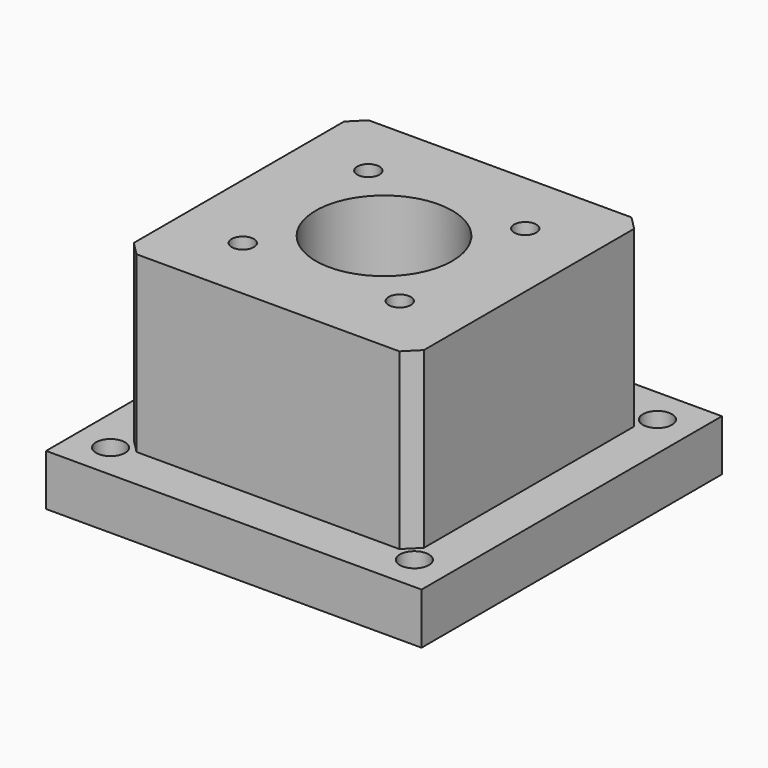
from build123d import *

# Parameters (mm, degrees)
F0_W      = 110
F0_H      = 110
F1_DEPTH  = 15
F2_W      = 85
F2_H      = 85
F3_DEPTH  = 51
F4_SIZE   = 4
F5_R      = 20
F6_DEPTH  = 66.001
F7_R      = 4.25
F8_DEPTH  = 66.001
F9_R      = 28
F10_DEPTH = 2
F11_R     = 3.25
F12_DEPTH = 25


with BuildPart() as f1:
    # F0 (on Top) → F1 (new body)
    with BuildSketch(Plane.XY):
        with Locations((55, 55)):
            Rectangle(F0_W, F0_H)
    extrude(amount=F1_DEPTH)

    # F2 (on face) → F3 (join)
    with BuildSketch(Plane.XY.offset(15)):
        with Locations((55, 55)):
            Rectangle(F2_W, F2_H)
    extrude(amount=F3_DEPTH)

    # F4
    f4_edges = [f1.edges().sort_by_distance(p)[0] for p in [
        (12.5, 12.5, 40.5),
        (97.5, 12.5, 40.5),
        (97.5, 97.5, 40.5),
        (12.5, 97.5, 40.5),
    ]]
    chamfer(f4_edges, length=F4_SIZE)

    # F5 (on face) → F6 (cut, through all)
    with BuildSketch(Plane.XY.offset(66)):
        with Locations((55, 55)):
            Circle(F5_R)
    extrude(amount=-F6_DEPTH, mode=Mode.SUBTRACT)

    # F7 (on face) → F8 (cut, through all)
    with BuildSketch(Plane(origin=(0, 0, 0), x_dir=(1, 0, 0), z_dir=(0, 0, -1))):
        with Locations((10.5, -10.5)):
            Circle(F7_R)
        with Locations((99.5, -10.5)):
            Circle(F7_R)
        with Locations((99.5, -99.5)):
            Circle(F7_R)
        with Locations((10.5, -99.5)):
            Circle(F7_R)
    extrude(amount=-F8_DEPTH, mode=Mode.SUBTRACT)

    # F9 (on face) → F10 (cut)
    with BuildSketch(Plane(origin=(0, 0, 0), x_dir=(1, 0, 0), z_dir=(0, 0, -1))):
        with Locations((55, -55)):
            Circle(F9_R)
    extrude(amount=-F10_DEPTH, mode=Mode.SUBTRACT)

    # F11 (on face) → F12 (cut)
    with BuildSketch(Plane.XY.offset(66)):
        with BuildLine():
            ThreePointArc((34.317127, 75.682873), (35.021638, 76.737249), (35.26903, 77.98097))
            ThreePointArc((35.26903, 77.98097), (29.016421, 79.224692), (34.317127, 75.682873))
        make_face()
        with Locations((77.98097, 77.98097)):
            Circle(F11_R)
        with Locations((77.98097, 32.01903)):
            Circle(F11_R)
        with Locations((32.01903, 32.01903)):
            Circle(F11_R)
    extrude(amount=-F12_DEPTH, mode=Mode.SUBTRACT)


solid = f1.part
